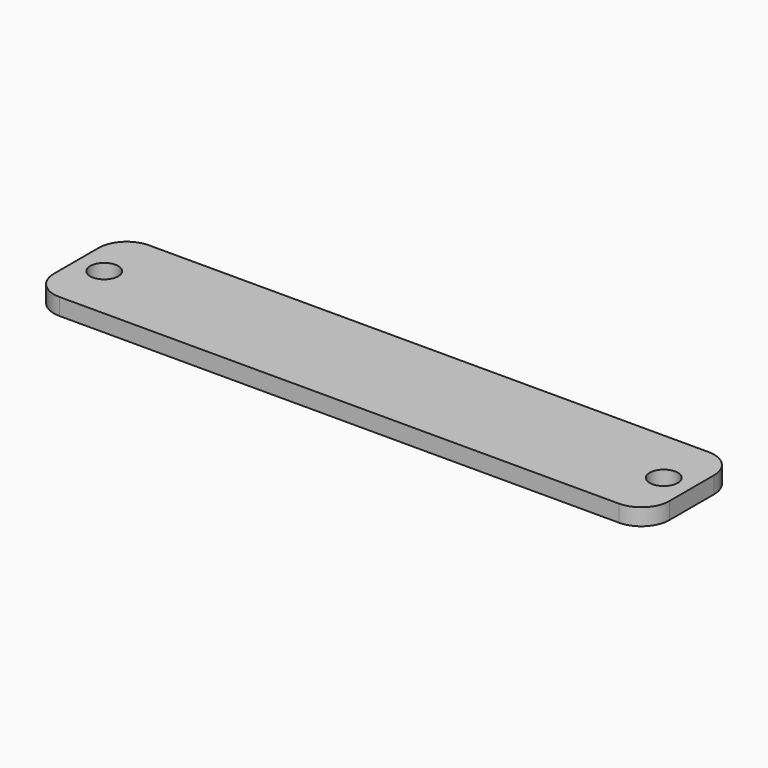
from build123d import *

# Parameters (mm, degrees)
F0_R     = 1.25
F1_DEPTH = 1.5


with BuildPart() as f1:
    # F0 (on Top) → F1 (new body)
    with BuildSketch(Plane.XY):
        with BuildLine():
            ThreePointArc((27.5, 2.5), (26.767766953, 4.267766953), (25, 5))
            Line((25, 5), (-25, 5))
            ThreePointArc((-25, 5), (-26.767766953, 4.267766953), (-27.5, 2.5))
            Line((-27.5, 2.5), (-27.5, -2.5))
            ThreePointArc((-27.5, -2.5), (-26.767766953, -4.267766953), (-25, -5))
            Line((-25, -5), (25, -5))
            ThreePointArc((25, -5), (26.767766953, -4.267766953), (27.5, -2.5))
            Line((27.5, -2.5), (27.5, 2.5))
        make_face()
        with Locations((-25, 0)):
            Circle(F0_R, mode=Mode.SUBTRACT)
        with BuildLine():
            ThreePointArc((26.25, 0), (25, -1.25), (23.75, 0))
            ThreePointArc((23.75, 0), (25, 1.25), (26.25, 0))
        make_face(mode=Mode.SUBTRACT)
    extrude(amount=F1_DEPTH)


solid = f1.part
